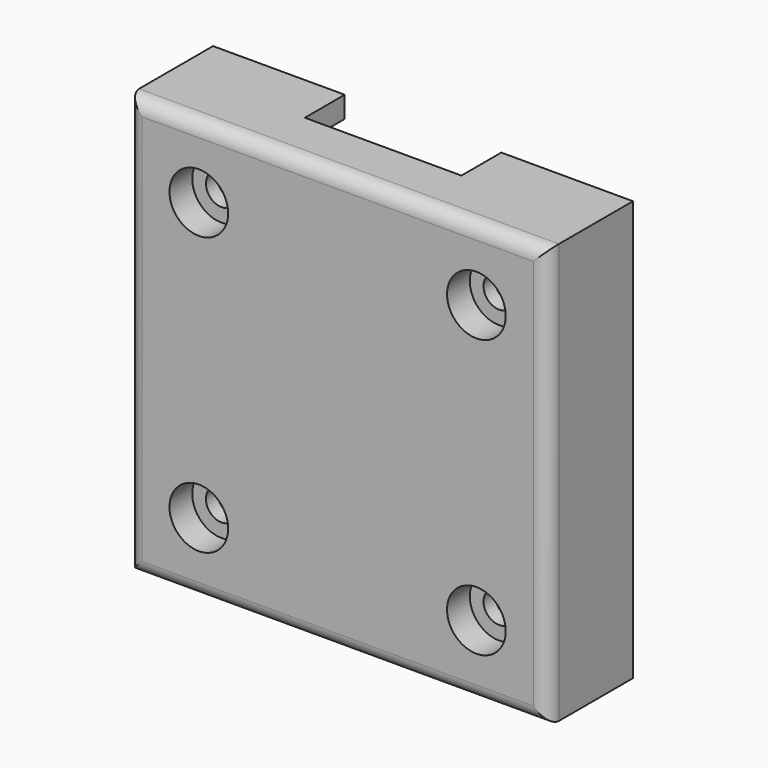
from build123d import *

# Parameters (mm, degrees)
F0_W            = 59
F0_H            = 59
F3_DEPTH        = 15
F1_W            = 53
F1_H            = 53
F4_DEPTH        = 12
F2_W            = 22
F2_H            = 14
F5_DEPTH        = 30
F5_DEPTH_BACK   = 30
F6_R            = 2
F8_R            = 5
F9_DEPTH        = 6
F11_D           = 4.4
F11_CBORE_D     = 8.25
F11_CBORE_DEPTH = 4
F12_D           = 4.4
F12_CBORE_D     = 8.25
F12_CBORE_DEPTH = 4
F13_D           = 4.4
F13_CBORE_D     = 8.25
F13_CBORE_DEPTH = 4
F14_D           = 4.4
F14_CBORE_D     = 8.25
F14_CBORE_DEPTH = 4


with BuildPart() as f3:
    # F0 (on Front) → F3 (new body)
    with BuildSketch(Plane.XZ):
        Rectangle(F0_W, F0_H)
    extrude(amount=F3_DEPTH)

    # F1 (on Front) → F4 (cut)
    with BuildSketch(Plane.XZ):
        Rectangle(F1_W, F1_H)
    extrude(amount=F4_DEPTH, mode=Mode.SUBTRACT)

    # F2 (on Top) → F5 (cut, two sides)
    with BuildSketch(Plane.XY) as f5_sk:
        Rectangle(F2_W, F2_H)
    extrude(amount=-F5_DEPTH, mode=Mode.SUBTRACT)
    extrude(f5_sk.sketch, amount=F5_DEPTH_BACK, mode=Mode.SUBTRACT)

    # F6
    f6_edges = [f3.edges().sort_by_distance(p)[0] for p in [
        (0, -15, 29.5),
        (-29.5, -15, 0),
        (0, -15, -29.5),
        (29.5, -15, 0),
    ]]
    fillet(f6_edges, radius=F6_R)

    # F8 (on offset) → F9 (join)
    with BuildSketch(Plane.XZ.offset(15)):
        with Locations((19.5, 19.5)):
            Circle(F8_R)
        with Locations((-19.5, 19.5)):
            Circle(F8_R)
        with Locations((19.5, -19.5)):
            Circle(F8_R)
        with Locations((-19.5, -19.5)):
            Circle(F8_R)
    extrude(amount=-F9_DEPTH)

    # F11 (through all)
    with Locations(Plane.XZ.offset(15)):
        with Locations((-19.5, 19.5)):
            CounterBoreHole(F11_D / 2, F11_CBORE_D / 2, F11_CBORE_DEPTH)

    # F12 (through all)
    with Locations(Plane.XZ.offset(15)):
        with Locations((-19.5, -19.5)):
            CounterBoreHole(F12_D / 2, F12_CBORE_D / 2, F12_CBORE_DEPTH)

    # F13 (through all)
    with Locations(Plane.XZ.offset(15)):
        with Locations((19.5, -19.5)):
            CounterBoreHole(F13_D / 2, F13_CBORE_D / 2, F13_CBORE_DEPTH)

    # F14 (through all)
    with Locations(Plane.XZ.offset(15)):
        with Locations((19.5, 19.5)):
            CounterBoreHole(F14_D / 2, F14_CBORE_D / 2, F14_CBORE_DEPTH)


solid = f3.part
